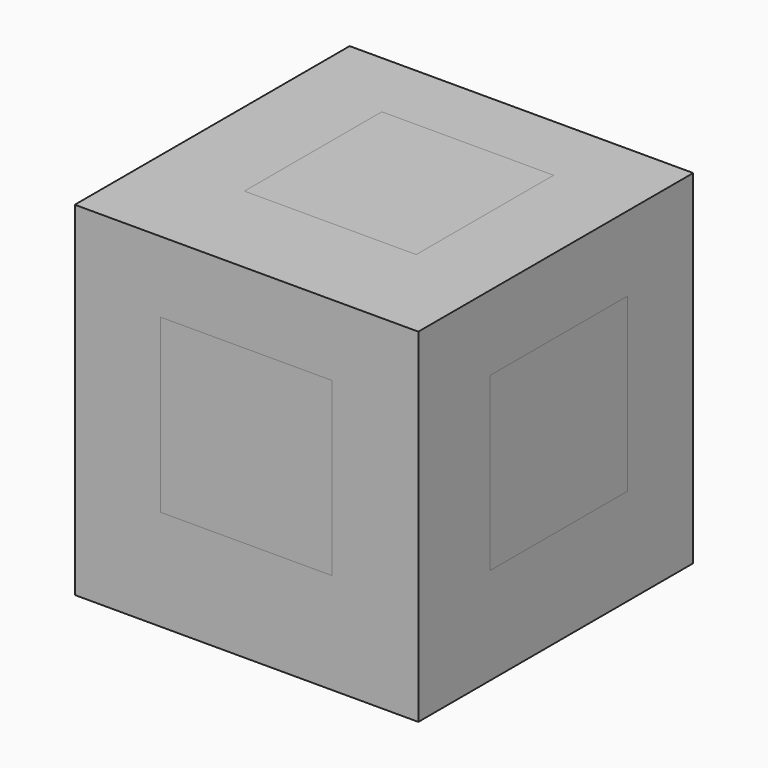
from build123d import *

# Parameters (mm, degrees)
F0_W      = 25.4
F0_H      = 25.4
F1_DEPTH  = 25.4
F2_W      = 12.7
F2_H      = 12.7
F3_DEPTH  = 3.175
F4_W      = 12.7
F4_H      = 12.7
F5_DEPTH  = 3.175
F6_W      = 12.7
F6_H      = 12.7
F7_DEPTH  = 3.175
F8_W      = 12.7
F8_H      = 12.7
F9_DEPTH  = 3.175
F10_W     = 12.7
F10_H     = 12.7
F11_DEPTH = 3.175
F12_W     = 12.7
F12_H     = 12.7
F13_DEPTH = 3.175
F14_W     = 12.7
F14_H     = 12.7
F15_DEPTH = 3.175
F16_W     = 12.7
F16_H     = 12.7
F17_DEPTH = 3.175
F18_W     = 12.7
F18_H     = 12.7
F19_DEPTH = 3.175
F20_W     = 12.7
F20_H     = 12.7
F21_DEPTH = 3.175
F22_W     = 12.7
F22_H     = 12.7
F23_DEPTH = 3.175
F24_W     = 12.7
F24_H     = 12.7
F25_DEPTH = 3.175


with BuildPart() as f1:
    # F0 (on Top) → F1 (new body)
    with BuildSketch(Plane.XY):
        with Locations((-0.25125857, -4.2805400074)):
            Rectangle(F0_W, F0_H)
    extrude(amount=F1_DEPTH)

    # F2 (on face) → F3 (cut)
    with BuildSketch(Plane.XZ.offset(16.9805400074)):
        with Locations((-0.2695335239, 13.7964034617)):
            Rectangle(F2_W, F2_H)
    extrude(amount=-F3_DEPTH, mode=Mode.SUBTRACT)

    # F4 (on face) → F5 (cut)
    with BuildSketch(Plane(origin=(-12.95125857, 0, 0), x_dir=(0, -1, 0), z_dir=(-1, 0, 0))):
        with Locations((4.0110082667, 13.5085987091)):
            Rectangle(F4_W, F4_H)
    extrude(amount=-F5_DEPTH, mode=Mode.SUBTRACT)

    # F6 (on face) → F7 (cut)
    with BuildSketch(Plane(origin=(0, 8.4194599926, 0), x_dir=(-1, 0, 0), z_dir=(0, 1, 0))):
        with Locations((0.2695341431, 12.9329854786)):
            Rectangle(F6_W, F6_H)
    extrude(amount=-F7_DEPTH, mode=Mode.SUBTRACT)

    # F8 (on face) → F9 (cut)
    with BuildSketch(Plane.YZ.offset(12.44874143)):
        with Locations((-4.0110074148, 13.5085987091)):
            Rectangle(F8_W, F8_H)
    extrude(amount=-F9_DEPTH, mode=Mode.SUBTRACT)

    # F10 (on face) → F11 (cut)
    with BuildSketch(Plane.XY.offset(25.4)):
        with Locations((-0.0182730913, -3.1841365457)):
            Rectangle(F10_W, F10_H)
    extrude(amount=-F11_DEPTH, mode=Mode.SUBTRACT)

    # F12 (on face) → F13 (cut)
    with BuildSketch(Plane(origin=(0, 0, 0), x_dir=(1, 0, 0), z_dir=(0, 0, -1))):
        with Locations((0.4317080602, 4.9845139546)):
            Rectangle(F12_W, F12_H)
    extrude(amount=-F13_DEPTH, mode=Mode.SUBTRACT)


with BuildPart() as f15:
    # F14 (on face) → F15 (new body)
    with BuildSketch(Plane.XY.offset(22.225)):
        with Locations((-0.0182730913, -3.1841365457)):
            Rectangle(F14_W, F14_H)
    extrude(amount=F15_DEPTH)


with BuildPart() as f17:
    # F16 (on face) → F17 (new body)
    with BuildSketch(Plane(origin=(0, 5.2444599926, 0), x_dir=(-1, 0, 0), z_dir=(0, 1, 0))):
        with Locations((0.2695341431, 12.9329854786)):
            Rectangle(F16_W, F16_H)
    extrude(amount=F17_DEPTH)


with BuildPart() as f19:
    # F18 (on face) → F19 (new body)
    with BuildSketch(Plane(origin=(-9.77625857, 0, 0), x_dir=(0, -1, 0), z_dir=(-1, 0, 0))):
        with Locations((4.0110082667, 13.5085987091)):
            Rectangle(F18_W, F18_H)
    extrude(amount=F19_DEPTH)


with BuildPart() as f21:
    # F20 (on face) → F21 (new body)
    with BuildSketch(Plane.YZ.offset(9.27374143)):
        with Locations((-4.0110074148, 13.5085987091)):
            Rectangle(F20_W, F20_H)
    extrude(amount=F21_DEPTH)


with BuildPart() as f23:
    # F22 (on face) → F23 (new body)
    with BuildSketch(Plane.XZ.offset(13.8055400074)):
        with Locations((-0.2695335239, 13.7964034617)):
            Rectangle(F22_W, F22_H)
    extrude(amount=F23_DEPTH)


with BuildPart() as f25:
    # F24 (on face) → F25 (new body)
    with BuildSketch(Plane(origin=(0, 0, 3.175), x_dir=(1, 0, 0), z_dir=(0, 0, -1))):
        with Locations((0.4317080602, 4.9845139546)):
            Rectangle(F24_W, F24_H)
    extrude(amount=F25_DEPTH)


solid = Compound([f1.part, f15.part, f17.part, f19.part, f21.part, f23.part, f25.part])
